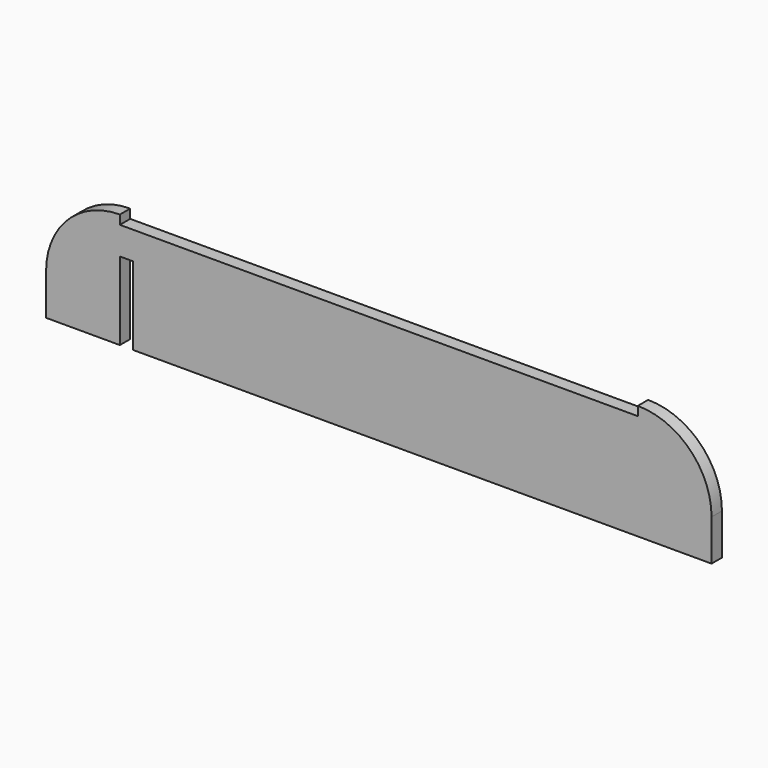
from build123d import *

# Parameters (mm, degrees)
F1_DEPTH = 10


with BuildPart() as f1:
    # F0 (on Front) → F1 (new body)
    with BuildSketch(Plane.XZ):
        with BuildLine():
            Line((-200, 50), (-200, 57))
            ThreePointArc((-200, 57), (-240.305087, 40.305087), (-257, 0))
            Line((-257, 0), (-257, -31.777661))
            Line((-257, -31.777661), (-200, -31.777661))
            Line((-200, -31.777661), (-200, 0))
            Line((-200, 0), (-200, 28.5))
            Line((-200, 28.5), (-190, 28.5))
            Line((-190, 28.5), (-190, 0))
            Line((-190, 0), (-190, -31.777661))
            Line((-190, -31.777661), (190, -31.777661))
            Line((190, -31.777661), (200, -31.777661))
            Line((200, -31.777661), (257, -31.777661))
            Line((257, -31.777661), (257, 0))
            ThreePointArc((257, 0), (240.305087, 40.305087), (200, 57))
            Line((200, 57), (200, 50))
            Line((200, 50), (-200, 50))
        make_face()
    extrude(amount=F1_DEPTH)


solid = f1.part
